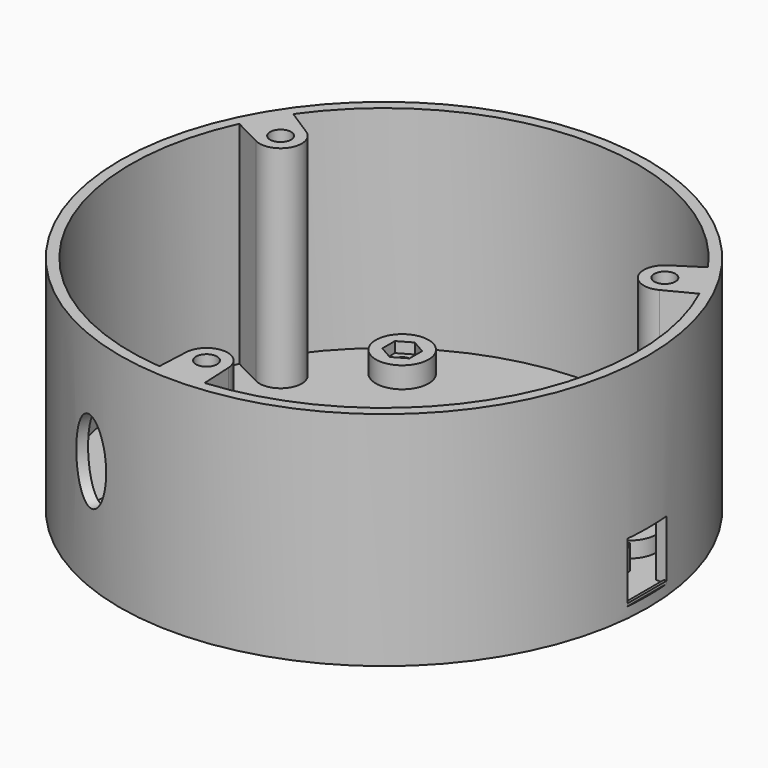
from build123d import *

# Parameters (mm, degrees)
SKETCH_R        = 50
PAD_DEPTH       = 42
SKETCH001_R     = 48
POCKET_DEPTH    = 40
PAD001_DEPTH    = 40
SKETCH005_W     = 9.3
SKETCH005_H     = 11.3
POCKET001_DEPTH = 10
SKETCH006_W     = 6
SKETCH006_H     = 9
PAD004_DEPTH    = 10
POCKET002_DEPTH = 8
SKETCH009_R     = 5
PAD006_DEPTH    = 4
SKETCH011_W     = 0.5
SKETCH011_H     = 9.3
PAD007_DEPTH    = 0.5
SKETCH012_R     = 5
PAD008_DEPTH    = 3
POCKET004_DEPTH = 2
SKETCH014_R     = 1.5
POCKET005_DEPTH = 4
POCKET006_DEPTH = 2
SKETCH015_R     = 1.5
POCKET007_DEPTH = 5
SKETCH016_R     = 2
POCKET008_DEPTH = 5.8
POCKET009_DEPTH = 5


with BuildPart() as part:
    # Sketch → Pad (new body)
    with BuildSketch(Plane.XY):
        Circle(SKETCH_R)
    extrude(amount=PAD_DEPTH)

    # Sketch001 (on DatumPlane) → Pocket (cut)
    with BuildSketch(Plane.XY.offset(42)):
        Circle(SKETCH001_R)
    extrude(amount=-POCKET_DEPTH, mode=Mode.SUBTRACT)

    # Sketch002 (on DatumPlane) → Pad001 (join)
    with BuildSketch(Plane.XY.offset(42)):
        with BuildLine():
            ThreePointArc((-38.205841, 17.44459), (-32.908965, 19), (-34.210379, 24.364934))
            Line((-34.210379, 24.364934), (-40.104744, 28.153322))
            ThreePointArc((-40.104744, 28.153322), (-42.435245, 24.5), (-44.433864, 20.655066))
            Line((-38.205841, 17.44459), (-44.433864, 20.655066))
        make_face()
        with BuildLine():
            ThreePointArc((3.995462, -41.809524), (0, -38), (-3.995462, -41.809524))
            Line((-3.995462, -41.809524), (-4.32912, -48.808388))
            ThreePointArc((-4.32912, -48.808388), (0, -49), (4.32912, -48.808388))
            Line((3.995462, -41.809524), (4.32912, -48.808388))
        make_face()
        with BuildLine():
            ThreePointArc((34.210379, 24.364934), (32.908965, 19), (38.205841, 17.44459))
            Line((38.205841, 17.44459), (44.433864, 20.655066))
            ThreePointArc((44.433864, 20.655066), (42.435245, 24.5), (40.104744, 28.153322))
            Line((34.210379, 24.364934), (40.104744, 28.153322))
        make_face()
    extrude(amount=-PAD001_DEPTH)

    # Sketch005 (on DatumPlane) → Pocket001 (cut)
    with BuildSketch(Plane.YZ.offset(50)):
        with Locations((0, 7.65)):
            Rectangle(SKETCH005_W, SKETCH005_H)
    extrude(amount=-POCKET001_DEPTH, mode=Mode.SUBTRACT)

    # Sketch006 (on DatumPlane) → Pad004 (join)
    with BuildSketch(Plane.XY.offset(2)):
        with Locations((40, 0)):
            Rectangle(SKETCH006_W, SKETCH006_H)
    extrude(amount=PAD004_DEPTH)

    # Sketch007 (on Face18 of Pad004) → Pocket002 (cut)
    with BuildSketch(Plane.YZ.offset(43)):
        with BuildLine():
            ThreePointArc((-3.99875, 6.6), (0, 2.7), (3.99875, 6.6))
            Line((5.575286, 6.6), (3.99875, 6.6))
            Line((5.575286, 15.969053), (5.575286, 6.6))
            Line((-6.906295, 15.969053), (5.575286, 15.969053))
            Line((-6.906295, 6.6), (-6.906295, 15.969053))
            Line((-3.99875, 6.6), (-6.906295, 6.6))
        make_face()
    extrude(amount=-POCKET002_DEPTH, mode=Mode.SUBTRACT)

    # Sketch009 (on DatumPlane) → Pad006 (join)
    with BuildSketch(Plane.XY.offset(2)):
        with Locations((-22.75, 32.75)):
            Circle(SKETCH009_R)
        with Locations((22.75, 32.75)):
            Circle(SKETCH009_R)
        with Locations((22.75, -32.75)):
            Circle(SKETCH009_R)
        with Locations((-22.75, -32.75)):
            Circle(SKETCH009_R)
    extrude(amount=PAD006_DEPTH)

    # Sketch011 (on DatumPlane) → Pad007 (join)
    with BuildSketch(Plane.XY.offset(2)):
        with Locations((49.533305, 0)):
            Rectangle(SKETCH011_W, SKETCH011_H)
    extrude(amount=PAD007_DEPTH)

    # Sketch012 (on DatumPlane) → Pad008 (join)
    with BuildSketch(Plane.XY.offset(2)):
        with Locations((37.35, -11.5)):
            Circle(SKETCH012_R)
    pad008 = extrude(amount=PAD008_DEPTH)

    # Sketch013 (on Face47 of Pad008) → Pocket004 (cut)
    with BuildSketch(Plane.XY.offset(5)):
        Polygon((39.925, -12.986677), (39.925, -10.013323), (37.35, -8.526646), (34.775, -10.013323), (34.775, -12.986677), (37.35, -14.473354), align=None)
    pocket004 = extrude(amount=-POCKET004_DEPTH, mode=Mode.SUBTRACT)

    # Sketch014 (on Face47 of Pocket004) → Pocket005 (cut)
    with BuildSketch(Plane.XY.offset(5)):
        with Locations((37.35, -11.5)):
            Circle(SKETCH014_R)
    pocket005 = extrude(amount=-POCKET005_DEPTH, mode=Mode.SUBTRACT)

    # Sketch010 (on DatumPlane) → Pocket006 (cut)
    with BuildSketch(Plane.XY.offset(6)):
        Polygon((-20.175, 31.263323), (-20.175, 34.236677), (-22.75, 35.723354), (-25.325, 34.236677), (-25.325, 31.263323), (-22.75, 29.776646), align=None)
        Polygon((25.325, -34.236677), (25.325, -31.263323), (22.75, -29.776646), (20.175, -31.263323), (20.175, -34.236677), (22.75, -35.723354), align=None)
        Polygon((22.75, 35.723354), (20.175, 34.236677), (20.175, 31.263323), (22.75, 29.776646), (25.325, 31.263323), (25.325, 34.236677), align=None)
        Polygon((-20.175, -31.263323), (-22.75, -29.776646), (-25.325, -31.263323), (-25.325, -34.236677), (-22.75, -35.723354), (-20.175, -34.236677), align=None)
    extrude(amount=-POCKET006_DEPTH, mode=Mode.SUBTRACT)

    # Sketch015 (on DatumPlane) → Pocket007 (cut)
    with BuildSketch(Plane.XY.offset(6)):
        with Locations((-22.75, 32.75)):
            Circle(SKETCH015_R)
        with Locations((22.75, 32.75)):
            Circle(SKETCH015_R)
        with Locations((22.7, -32.75)):
            Circle(SKETCH015_R)
        with Locations((-22.75, -32.75)):
            Circle(SKETCH015_R)
    extrude(amount=-POCKET007_DEPTH, mode=Mode.SUBTRACT)

    # Sketch016 (on DatumPlane) → Pocket008 (cut)
    with BuildSketch(Plane.XY.offset(42)):
        with Locations((-36.373067, 21)):
            Circle(SKETCH016_R)
        with Locations((36.373067, 21)):
            Circle(SKETCH016_R)
        with Locations((0, -42)):
            Circle(SKETCH016_R)
    extrude(amount=-POCKET008_DEPTH, mode=Mode.SUBTRACT)

    # Mirrored: Pad008, Pocket004, Pocket005 across Sketch012 H_Axis
    add(pad008.mirror(Plane(origin=(0, 0, 2), x_dir=(0, 0, 1), z_dir=(0, 1, 0))))
    add(pocket004.mirror(Plane(origin=(0, 0, 2), x_dir=(0, 0, 1), z_dir=(0, 1, 0))), mode=Mode.SUBTRACT)
    add(pocket005.mirror(Plane(origin=(0, 0, 2), x_dir=(0, 0, 1), z_dir=(0, 1, 0))), mode=Mode.SUBTRACT)

    # Sketch018 (on DatumPlane) → Pocket009 (cut)
    with BuildSketch(Plane(origin=(-18.476599, -46.460901, 42), x_dir=(0.929218, -0.369532, 0), z_dir=(-0.369532, -0.929218, 0))):
        with BuildLine():
            add(Edge.make_bspline(
                [(0, -28.745076), (7.727306, -28.745076), (3.863653, -17.127462), (0, -5.509849), (-3.863653, -17.127462), (-7.727306, -28.745076), (0, -28.745076)],
                knots=[0, 0, 0, 2.094395, 2.094395, 4.18879, 4.18879, 6.283185, 6.283185, 6.283185], degree=2, weights=[1, 0.5, 1, 0.5, 1, 0.5, 1]))
        make_face()
    extrude(amount=-POCKET009_DEPTH, mode=Mode.SUBTRACT)


solid = part.part
